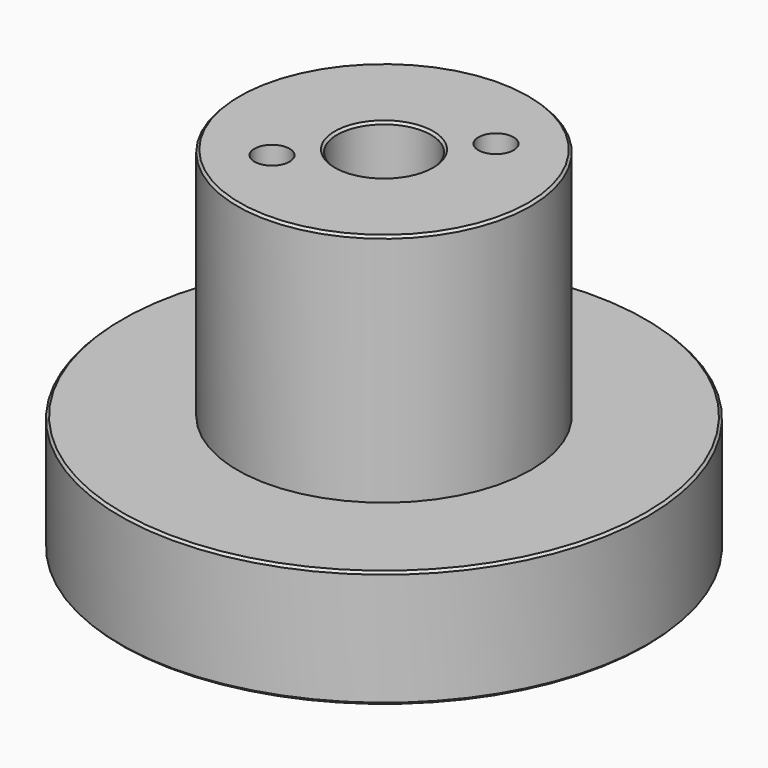
from build123d import *

# Parameters (mm, degrees)
F0_R     = 12.5
F0_R_2   = 4
F1_DEPTH = 30
F0_R_3   = 22.5
F0_R_4   = 1
F2_DEPTH = 10
F3_R     = 1
F4_DEPTH = 2
F5_SIZE  = 0.2
F6_SIZE  = 0.2
F8_D     = 3
F8_DEPTH = 12
F8_TIP   = 0.9012909285


with BuildPart() as f1:
    # F0 (on Top) → F1 (new body)
    with BuildSketch(Plane.XY):
        Circle(F0_R)
        Circle(F0_R_2, mode=Mode.SUBTRACT)
    extrude(amount=F1_DEPTH)

    # F0 (on Top) → F2 (join)
    with BuildSketch(Plane.XY):
        Circle(F0_R_3)
        Circle(F0_R, mode=Mode.SUBTRACT)
        with Locations((0, 17.5)):
            Circle(F0_R_4, mode=Mode.SUBTRACT)
    extrude(amount=F2_DEPTH)

    # F6
    f6_edges = [f1.edges().sort_by_distance(p)[0] for p in [
        (-12.5, 0, 30),
        (-4, 0, 30),
        (-22.5, 0, 10),
        (-4, 0, 0),
        (-1, 17.5, 0),
        (-1, 17.5, 10),
        (-22.5, 0, 0),
    ]]
    chamfer(f6_edges, length=F6_SIZE)

    # F8
    with Locations(Plane.XY.offset(30)):
        with Locations((5.3033008589, 5.3033008589), (-5.3033008589, -5.3033008589)):
            Hole(F8_D / 2, depth=F8_DEPTH)
            with Locations((0, 0, -(F8_DEPTH + F8_TIP / 2))):  # 118° drill point
                Cone(0, F8_D / 2, F8_TIP, mode=Mode.SUBTRACT)


with BuildPart() as f4:
    # F3 (on face) → F4 (new body, symmetric)
    with BuildSketch(Plane.XY.offset(10)):
        with Locations((0, 17.5)):
            Circle(F3_R)
    extrude(amount=F4_DEPTH, both=True)

    # F5
    f5_edges = [f4.edges().sort_by_distance(p)[0] for p in [
        (-1, 17.5, 12),
        (-1, 17.5, 8),
    ]]
    chamfer(f5_edges, length=F5_SIZE)


solid = Compound([f1.part, f4.part])
